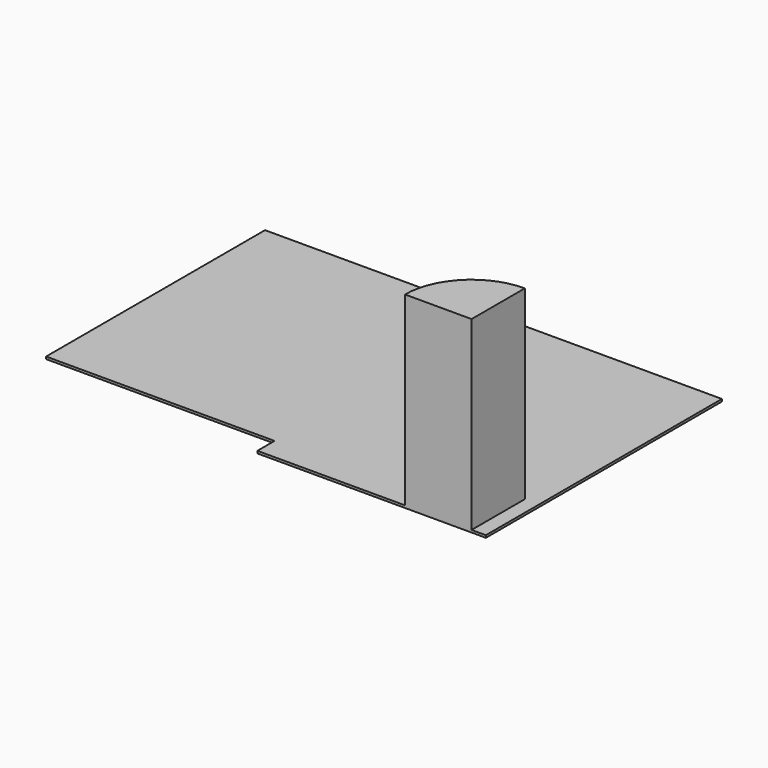
from build123d import *

# Parameters (mm, degrees)
F1_DEPTH = 25
F3_DEPTH = 1981.2


with BuildPart() as f1:
    # F0 (on Top) → F1 (new body)
    with BuildSketch(Plane.XY):
        Polygon((4876.8, 0), (0, 0), (0, -2921), (2438.4, -2921), (2438.4, -3149.6), (4876.8, -3149.6), align=None)
    extrude(amount=F1_DEPTH)

    # F2 (on face) → F3 (join)
    with BuildSketch(Plane.XY.offset(25)):
        with BuildLine():
            Line((4013.2, -3149.6), (4724.4, -3149.6))
            Line((4724.4, -3149.6), (4724.4, -2438.4))
            ThreePointArc((4724.4, -2438.4), (4221.505657, -2646.705657), (4013.2, -3149.6))
        make_face()
    extrude(amount=F3_DEPTH)


solid = f1.part
